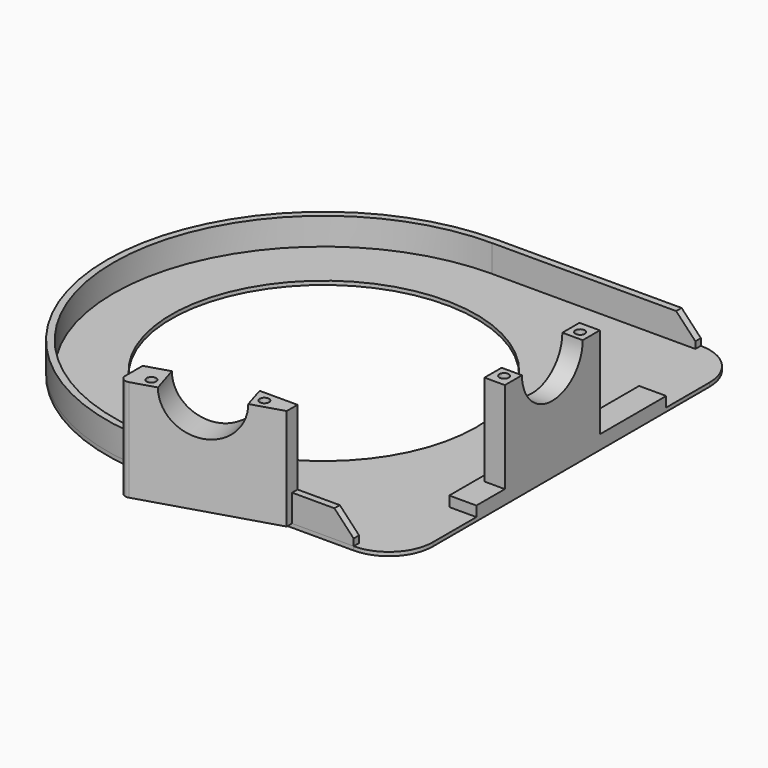
from build123d import *

# Parameters (mm, degrees)
PAD001_DEPTH    = 8
POCKET005_DEPTH = 128.001
PAD005_DEPTH    = 30
SKETCH005_R     = 11.2
POCKET_DEPTH    = 15.566959
POCKET006_DEPTH = 22
SKETCH012_R     = 1.4
POCKET007_DEPTH = 12
SKETCH001_R     = 45
PAD_DEPTH       = 1.12
SKETCH_W        = 8
SKETCH_H        = 70
PAD003_DEPTH    = 3
SKETCH008_W     = 6
SKETCH008_H     = 35
PAD004_DEPTH    = 27
SKETCH009_R     = 11.2
POCKET008_DEPTH = 137.000918
SKETCH013_R     = 1.4
POCKET009_DEPTH = 15


with BuildPart() as bevel_connector:
    # Sketch002 → Pad001 (new body)
    with BuildSketch(Plane.XY):
        with BuildLine():
            Line((60, 64), (0, 64))
            ThreePointArc((0, 64), (-63.999936, 0), (0, -64))
            Line((60, -64), (0, -64))
            Line((60, -62), (60, -64))
            Line((0, -62), (60, -62))
            ThreePointArc((0, 62), (-61.999985, 0), (0, -62))
            Line((0, 62), (60, 62))
            Line((60, 64), (60, 62))
        make_face()
    extrude(amount=PAD001_DEPTH)

    # Sketch011 → Pocket005 (cut, through all)
    with BuildSketch(Plane(origin=(0, 64, 0), x_dir=(-1, 0, 0), z_dir=(0, 1, 0))):
        Polygon((-53.9525, 8.40024), (-64.202263, 10.836407), (-61.187164, 0.741769), align=None)
    extrude(amount=-POCKET005_DEPTH, mode=Mode.SUBTRACT)


with BuildPart() as pocket007:
    # Sketch004 → Pad005 (new body)
    with BuildSketch(Plane.XY):
        with BuildLine():
            Line((41.843105, -62), (1.843105, -62))
            Line((1.843105, -62), (1.843105, -75.526382))
            ThreePointArc((1.843105, -75.526382), (2.653459, -77.134096), (4.427848, -77.438992))
            Line((4.427848, -77.438992), (41.843105, -66))
            Line((41.843105, -66), (41.843105, -62))
        make_face()
    extrude(amount=PAD005_DEPTH)

    # Sketch005 → Pocket (cut, through all)
    with BuildSketch(Plane(origin=(22.043577, -72.101291, 0), x_dir=(0.956305, 0.292372, 0), z_dir=(0.292372, -0.956305, 0))):
        with Locations((0, 30)):
            Circle(SKETCH005_R)
    extrude(amount=-POCKET_DEPTH, mode=Mode.SUBTRACT)

    # Sketch007 → Pocket006 (cut)
    with BuildSketch(Plane.XY.offset(30)):
        Polygon((-4.66376, -53.953282), (-5.90948, -71.46493), (38.1328, -58.000022), (37.116007, -54.0061), align=None)
    extrude(amount=-POCKET006_DEPTH, mode=Mode.SUBTRACT)

    # Sketch012 → Pocket007 (cut)
    with BuildSketch(Plane.XY.offset(30)):
        with Locations((7.764783, -73.281713)):
            Circle(SKETCH012_R)
        with Locations((34.541317, -65.095305)):
            Circle(SKETCH012_R)
    extrude(amount=-POCKET007_DEPTH, mode=Mode.SUBTRACT)


with BuildPart() as pocket009:
    # Sketch001 → Pad (new body)
    with BuildSketch(Plane.XY):
        with BuildLine():
            Line((60, 64), (0, 64))
            ThreePointArc((0, 64), (-63.999918, 0), (0, -64))
            Line((60, -64), (0, -64))
            ThreePointArc((60, -64), (69.192388, -60.192388), (73, -51))
            Line((73, 51), (73, -51))
            ThreePointArc((73, 51), (69.192388, 60.192388), (60, 64))
        make_face()
        Circle(SKETCH001_R, mode=Mode.SUBTRACT)
    extrude(amount=-PAD_DEPTH)

    # Sketch → Pad003 (new body)
    with BuildSketch(Plane.XY):
        with Locations((69, 0)):
            Rectangle(SKETCH_W, SKETCH_H)
    extrude(amount=PAD003_DEPTH)

    # Sketch008 → Pad004 (new body)
    with BuildSketch(Plane.XY.offset(3)):
        with Locations((70, -7)):
            Rectangle(SKETCH008_W, SKETCH008_H)
    extrude(amount=PAD004_DEPTH)

    # Sketch009 → Pocket008 (cut, through all)
    with BuildSketch(Plane.YZ.offset(73)):
        with Locations((-7, 30)):
            Circle(SKETCH009_R)
    extrude(amount=-POCKET008_DEPTH, mode=Mode.SUBTRACT)

    # Sketch013 → Pocket009 (cut)
    with BuildSketch(Plane.XY.offset(30)):
        with Locations((70, 7)):
            Circle(SKETCH013_R)
        with Locations((70, -21)):
            Circle(SKETCH013_R)
    extrude(amount=-POCKET009_DEPTH, mode=Mode.SUBTRACT)


solid = Compound([bevel_connector.part, pocket007.part, pocket009.part])
